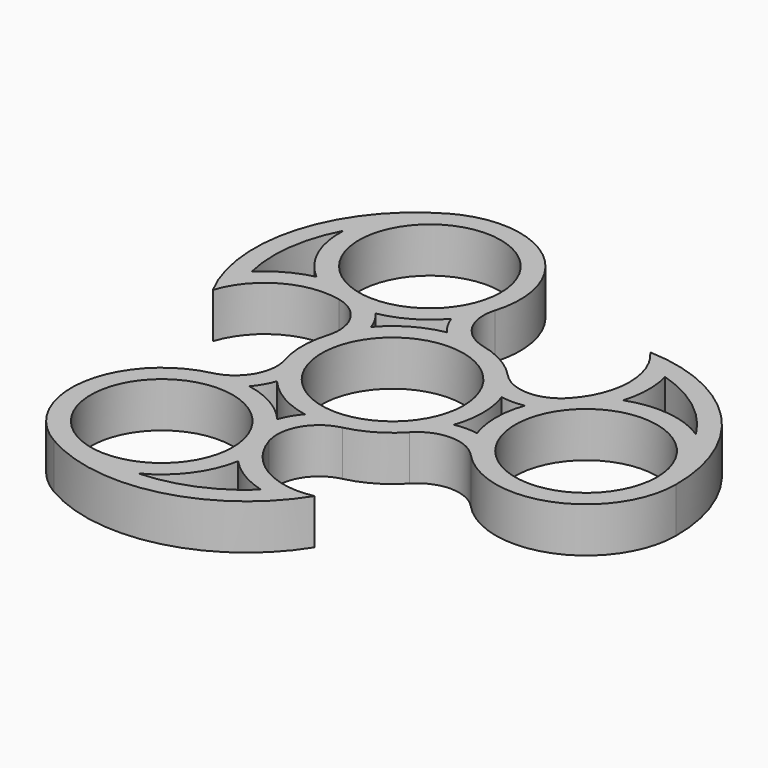
from build123d import *

# Parameters (mm, degrees)
F0_R     = 11
F1_DEPTH = 3.5


with BuildPart() as f1:
    # F0 (on Top) → F1 (new body, symmetric)
    with BuildSketch(Plane.XY):
        with BuildLine():
            ThreePointArc((10.243902, -9.542665), (15, -7.473189), (19.756098, -9.542665))
            ThreePointArc((19.756098, -9.542665), (35.090141, -13.041873), (43.999768, -0.08055))
            ThreePointArc((43.999768, -0.08055), (37.048801, 17.362057), (19.916667, 25.046485))
            ThreePointArc((19.916667, 25.046485), (22.842025, 17.263919), (19.756742, 9.543357))
            Line((19.756742, 9.543357), (19.756098, 9.542665))
            ThreePointArc((19.756098, 9.542665), (15, 7.473189), (10.243902, 9.542665))
            ThreePointArc((10.243902, 9.542665), (7, 12.124356), (3.142239, 13.642812))
            ThreePointArc((3.142239, 13.642812), (-1.028029, 16.726975), (-1.613858, 21.880615))
            ThreePointArc((-1.613858, 21.880615), (-6.250477, 36.909891), (-21.930126, 38.145192))
            ThreePointArc((-21.930126, 38.145192), (-33.560383, 23.404175), (-31.649225, 4.725097))
            ThreePointArc((-31.649225, 4.725097), (-26.372005, 11.149814), (-18.14316, 12.338162))
            Line((-18.14316, 12.338162), (-18.142239, 12.33795))
            ThreePointArc((-18.142239, 12.33795), (-13.971971, 9.253787), (-13.386142, 4.100147))
            ThreePointArc((-13.386142, 4.100147), (-14, 0), (-13.386142, -4.100147))
            ThreePointArc((-13.386142, -4.100147), (-13.971971, -9.253787), (-18.142239, -12.33795))
            ThreePointArc((-18.142239, -12.33795), (-28.839664, -23.868017), (-22.069642, -38.064642))
            ThreePointArc((-22.069642, -38.064642), (-3.488418, -40.766231), (11.732559, -29.771582))
            ThreePointArc((11.732559, -29.771582), (3.52998, -28.413733), (-1.613581, -21.881518))
            Line((-1.613581, -21.881518), (-1.613858, -21.880615))
            ThreePointArc((-1.613858, -21.880615), (-1.028029, -16.726975), (3.142239, -13.642812))
            ThreePointArc((3.142239, -13.642812), (7, -12.124356), (10.243902, -9.542665))
        make_face()
        with Locations((-15, -25.980762)):
            Circle(F0_R, mode=Mode.SUBTRACT)
        with BuildLine():
            ThreePointArc((5.620842, -32.517877), (-0.987996, -36.795749), (-8.679802, -38.472964))
            ThreePointArc((-8.679802, -38.472964), (-3.758329, -34.324912), (-1.212934, -28.413211))
            ThreePointArc((-1.212934, -28.413211), (1.916333, -30.944398), (5.620842, -32.517877))
        make_face(mode=Mode.SUBTRACT)
        with BuildLine():
            ThreePointArc((-12.418011, -12.220917), (-11.373895, -10.753787), (-10.625381, -9.115991))
            ThreePointArc((-10.625381, -9.115991), (-7, -12.124356), (-2.581989, -13.759845))
            ThreePointArc((-2.581989, -13.759845), (-3.626105, -15.226975), (-4.374619, -16.864772))
            ThreePointArc((-4.374619, -16.864772), (-8, -13.856406), (-12.418011, -12.220917))
        make_face(mode=Mode.SUBTRACT)
        with BuildLine():
            ThreePointArc((-30.971728, 11.391146), (-31.372055, 19.253504), (-28.978663, 26.753411))
            ThreePointArc((-28.978663, 26.753411), (-27.847081, 20.417264), (-24.000096, 15.257037))
            ThreePointArc((-24.000096, 15.257037), (-27.756802, 13.812606), (-30.971728, 11.391146))
        make_face(mode=Mode.SUBTRACT)
        Circle(F0_R, mode=Mode.SUBTRACT)
        with BuildLine():
            ThreePointArc((-4.374619, 16.864772), (-3.626105, 15.226975), (-2.581989, 13.759845))
            ThreePointArc((-2.581989, 13.759845), (-7, 12.124356), (-10.625381, 9.115991))
            ThreePointArc((-10.625381, 9.115991), (-11.373895, 10.753787), (-12.418011, 12.220917))
            ThreePointArc((-12.418011, 12.220917), (-8, 13.856406), (-4.374619, 16.864772))
        make_face(mode=Mode.SUBTRACT)
        with Locations((-15, 25.980762)):
            Circle(F0_R, mode=Mode.SUBTRACT)
        with BuildLine():
            ThreePointArc((16.79263, -4.643854), (15, -4.473189), (13.20737, -4.643854))
            ThreePointArc((13.20737, -4.643854), (14, 0), (13.20737, 4.643854))
            ThreePointArc((13.20737, 4.643854), (15, 4.473189), (16.79263, 4.643854))
            ThreePointArc((16.79263, 4.643854), (16, 0), (16.79263, -4.643854))
        make_face(mode=Mode.SUBTRACT)
        with Locations((30, 0)):
            Circle(F0_R, mode=Mode.SUBTRACT)
        with BuildLine():
            ThreePointArc((25.350886, 21.12673), (32.360051, 17.542245), (37.658465, 11.719553))
            ThreePointArc((37.658465, 11.719553), (31.60541, 13.907648), (25.21303, 13.156174))
            ThreePointArc((25.21303, 13.156174), (25.840468, 17.131792), (25.350886, 21.12673))
        make_face(mode=Mode.SUBTRACT)
    extrude(amount=F1_DEPTH, both=True)


solid = f1.part
